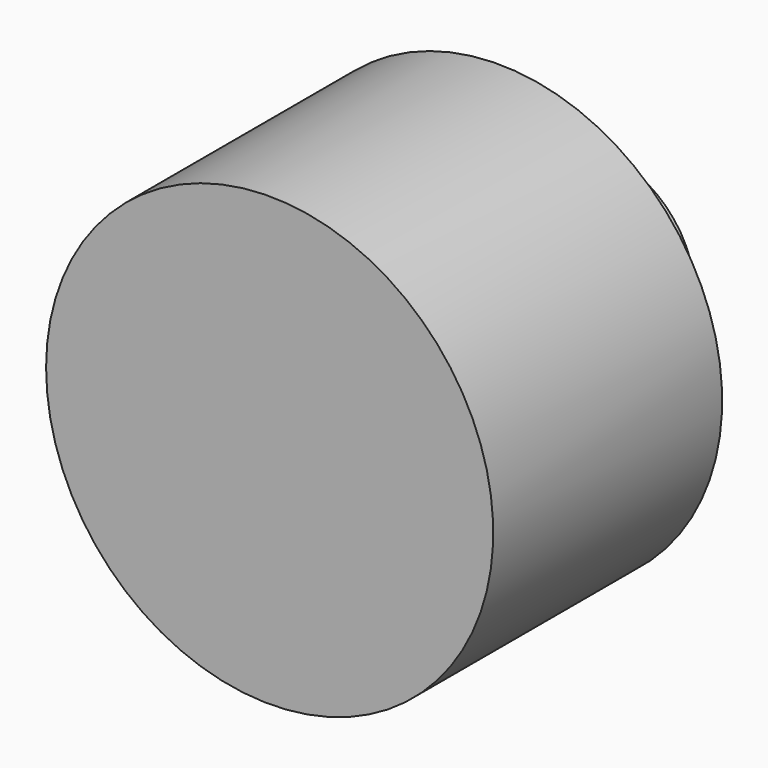
from build123d import *

# Parameters (mm, degrees)
F0_W     = 44.5568487048
F0_H     = 57.0305213332
F2_R     = 19.1913309814
F3_DEPTH = 25


with BuildPart() as f1:
    # F0 (on Top) → F1 (revolve)
    with BuildSketch(Plane.XY):
        with Locations((-22.2784243524, 28.5152606666)):
            Rectangle(F0_W, F0_H)
    revolve(axis=Axis((0, 28.5152606666, 0), (0, 1, 0)))

    # F2 (on face) → F3 (join)
    with BuildSketch(Plane(origin=(0, 57.0305213332, 0), x_dir=(-1, 0, 0), z_dir=(0, 1, 0))):
        Circle(F2_R)
    extrude(amount=F3_DEPTH)


solid = f1.part
